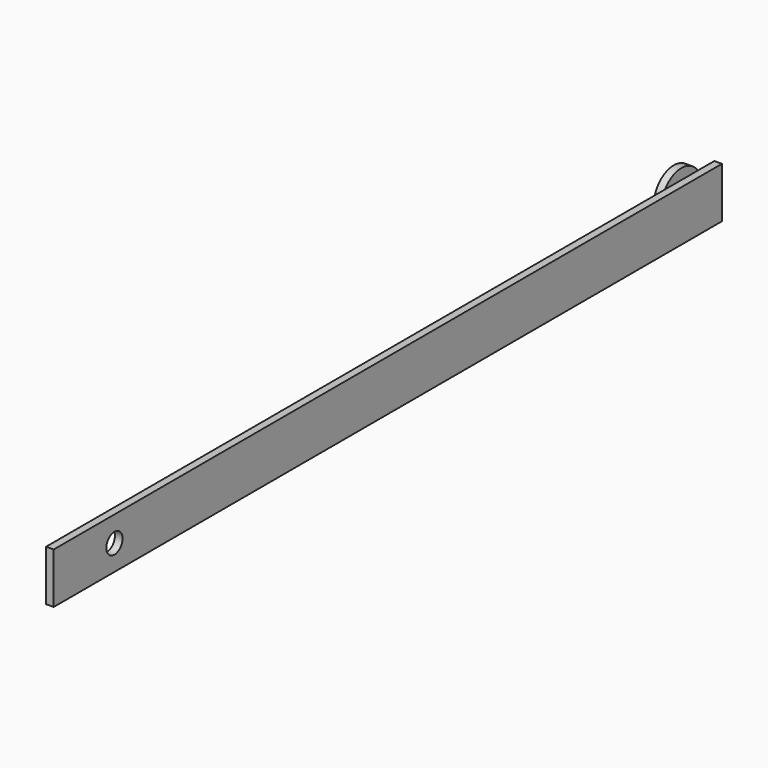
from build123d import *

# Parameters (mm, degrees)
F0_W     = 330
F0_H     = 20
F0_R     = 4
F1_DEPTH = 3
F2_DEPTH = 5
F4_R     = 10
F5_DEPTH = 3


with BuildPart() as f1:
    # F0 (on Right) → F1 (new body)
    with BuildSketch(Plane.YZ):
        with Locations((165, 10)):
            Rectangle(F0_W, F0_H)
        with Locations((30, 10)):
            Circle(F0_R, mode=Mode.SUBTRACT)
        with Locations((320, 10)):
            Circle(F0_R, mode=Mode.SUBTRACT)
        with Locations((320, 10)):
            Circle(F0_R)
    extrude(amount=F1_DEPTH)

    # F0 (on Right) → F2 (join)
    with BuildSketch(Plane.YZ):
        with Locations((320, 10)):
            Circle(F0_R)
    extrude(amount=-F2_DEPTH)

    # F4 (on offset) → F5 (join)
    with BuildSketch(Plane.YZ.offset(-5)):
        with Locations((320, 10)):
            Circle(F4_R)
    extrude(amount=-F5_DEPTH)


solid = f1.part
